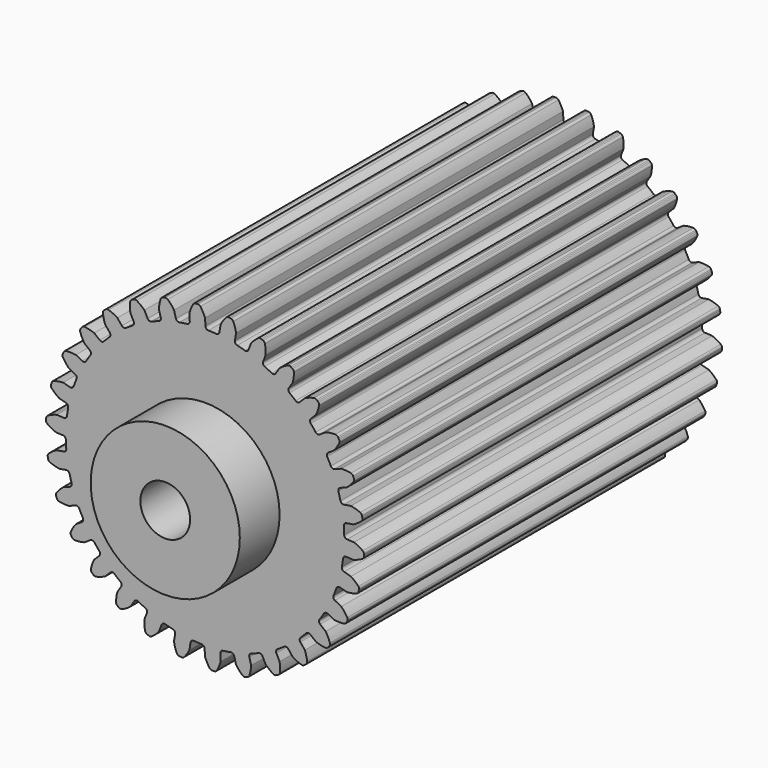
from build123d import *

# Parameters (mm, degrees)
F0_R     = 6.35
F1_DEPTH = 114.3
F2_R     = 19.05
F2_R_2   = 6.35
F3_DEPTH = 12.7


with BuildPart() as f1:
    # F0 (on Front) → F1 (new body)
    with BuildSketch(Plane.XZ):
        with BuildLine():
            ThreePointArc((-11.307946, 34.464262), (-11.370039, 33.911451), (-11.791311, 33.548153))
            ThreePointArc((-11.791311, 33.548153), (-12.743564, 33.19812), (-13.685445, 32.821063))
            ThreePointArc((-13.685445, 32.821063), (-14.241605, 32.80916), (-14.657651, 33.178431))
            Line((-14.657651, 33.178431), (-15.488771, 34.809596))
            ThreePointArc((-15.488771, 34.809596), (-16.427366, 35.631885), (-17.4654, 36.32442))
            ThreePointArc((-17.4654, 36.32442), (-17.81969, 36.425752), (-18.180103, 36.348987))
            Line((-18.180103, 36.348987), (-18.452893, 36.215842))
            Line((-18.452893, 36.215842), (-18.720952, 36.073411))
            ThreePointArc((-18.720952, 36.073411), (-18.994901, 35.826952), (-19.121168, 35.480764))
            ThreePointArc((-19.121168, 35.480764), (-19.171038, 34.233915), (-19.057483, 32.991246))
            Line((-19.057483, 32.991246), (-18.226363, 31.360081))
            ThreePointArc((-18.226363, 31.360081), (-18.172163, 30.806441), (-18.508695, 30.363494))
            ThreePointArc((-18.508695, 30.363494), (-19.367364, 29.823125), (-20.210268, 29.25848))
            ThreePointArc((-20.210268, 29.25848), (-20.751799, 29.131205), (-21.23553, 29.405906))
            Line((-21.23553, 29.405906), (-22.387626, 30.828626))
            ThreePointArc((-22.387626, 30.828626), (-23.476674, 31.437802), (-24.636011, 31.899383))
            ThreePointArc((-24.636011, 31.899383), (-25.003627, 31.92484), (-25.340203, 31.774819))
            Line((-25.340203, 31.774819), (-25.57935, 31.587867))
            Line((-25.57935, 31.587867), (-25.811938, 31.392815))
            ThreePointArc((-25.811938, 31.392815), (-26.028659, 31.094785), (-26.08019, 30.72991))
            ThreePointArc((-26.08019, 30.72991), (-25.869736, 29.499939), (-25.500297, 28.308035))
            Line((-25.500297, 28.308035), (-24.348201, 26.885314))
            ThreePointArc((-24.348201, 26.885314), (-24.180077, 26.355041), (-24.417162, 25.851805))
            ThreePointArc((-24.417162, 25.851805), (-25.144717, 25.144717), (-25.851805, 24.417162))
            ThreePointArc((-25.851805, 24.417162), (-26.355041, 24.180077), (-26.885314, 24.348201))
            Line((-26.885314, 24.348201), (-28.308035, 25.500297))
            ThreePointArc((-28.308035, 25.500297), (-29.499939, 25.869736), (-30.72991, 26.08019))
            ThreePointArc((-30.72991, 26.08019), (-31.094785, 26.028659), (-31.392815, 25.811938))
            Line((-31.392815, 25.811938), (-31.587867, 25.57935))
            Line((-31.587867, 25.57935), (-31.774819, 25.340203))
            ThreePointArc((-31.774819, 25.340203), (-31.92484, 25.003627), (-31.899383, 24.636011))
            ThreePointArc((-31.899383, 24.636011), (-31.437802, 23.476674), (-30.828626, 22.387626))
            Line((-30.828626, 22.387626), (-29.405906, 21.23553))
            ThreePointArc((-29.405906, 21.23553), (-29.131205, 20.751799), (-29.25848, 20.210268))
            ThreePointArc((-29.25848, 20.210268), (-29.823125, 19.367364), (-30.363494, 18.508695))
            ThreePointArc((-30.363494, 18.508695), (-30.806441, 18.172163), (-31.360081, 18.226363))
            Line((-31.360081, 18.226363), (-32.991246, 19.057483))
            ThreePointArc((-32.991246, 19.057483), (-34.233915, 19.171038), (-35.480764, 19.121168))
            ThreePointArc((-35.480764, 19.121168), (-35.826952, 18.994901), (-36.073411, 18.720952))
            Line((-36.073411, 18.720952), (-36.215842, 18.452893))
            Line((-36.215842, 18.452893), (-36.348987, 18.180103))
            ThreePointArc((-36.348987, 18.180103), (-36.425752, 17.81969), (-36.32442, 17.4654))
            ThreePointArc((-36.32442, 17.4654), (-35.631885, 16.427366), (-34.809596, 15.488771))
            Line((-34.809596, 15.488771), (-33.178431, 14.657651))
            ThreePointArc((-33.178431, 14.657651), (-32.80916, 14.241605), (-32.821063, 13.685445))
            ThreePointArc((-32.821063, 13.685445), (-33.19812, 12.743564), (-33.548153, 11.791311))
            ThreePointArc((-33.548153, 11.791311), (-33.911451, 11.370039), (-34.464262, 11.307946))
            Line((-34.464262, 11.307946), (-36.232582, 11.781766))
            ThreePointArc((-36.232582, 11.781766), (-37.471704, 11.634473), (-38.680938, 11.326459))
            ThreePointArc((-38.680938, 11.326459), (-38.993309, 11.130975), (-39.177425, 10.811771))
            Line((-39.177425, 10.811771), (-39.261011, 10.519956))
            Line((-39.261011, 10.519956), (-39.33453, 10.225444))
            ThreePointArc((-39.33453, 10.225444), (-39.334684, 9.856948), (-39.161905, 9.531468))
            ThreePointArc((-39.161905, 9.531468), (-38.268685, 8.660103), (-37.269219, 7.912982))
            Line((-37.269219, 7.912982), (-35.5009, 7.439163))
            ThreePointArc((-35.5009, 7.439163), (-35.053198, 7.108983), (-34.949208, 6.562502))
            ThreePointArc((-34.949208, 6.562502), (-35.122197, 5.56281), (-35.266597, 4.558589))
            ThreePointArc((-35.266597, 4.558589), (-35.534369, 4.070989), (-36.06219, 3.895317))
            Line((-36.06219, 3.895317), (-37.89038, 3.991129))
            ThreePointArc((-37.89038, 3.991129), (-39.071801, 3.589427), (-40.19057, 3.03673))
            ThreePointArc((-40.19057, 3.03673), (-40.455472, 2.780571), (-40.569198, 2.430063))
            Line((-40.569198, 2.430063), (-40.590286, 2.127247))
            Line((-40.590286, 2.127247), (-40.600966, 1.823885))
            ThreePointArc((-40.600966, 1.823885), (-40.524501, 1.463409), (-40.287827, 1.180964))
            ThreePointArc((-40.287827, 1.180964), (-39.232959, 0.514352), (-38.099999, -0.008642))
            Line((-38.099999, -0.008642), (-36.271809, -0.104453))
            ThreePointArc((-36.271809, -0.104453), (-35.765242, -0.334335), (-35.549905, -0.847253))
            ThreePointArc((-35.549905, -0.847253), (-35.511266, -1.861067), (-35.443721, -2.873365))
            ThreePointArc((-35.443721, -2.873365), (-35.604264, -3.405983), (-36.084026, -3.687556))
            Line((-36.084026, -3.687556), (-37.892187, -3.97394))
            ThreePointArc((-37.892187, -3.97394), (-38.964272, -4.612495), (-39.943682, -5.38572))
            ThreePointArc((-39.943682, -5.38572), (-40.149536, -5.691356), (-40.187902, -6.05785))
            Line((-40.187902, -6.05785), (-40.14557, -6.358434))
            Line((-40.14557, -6.358434), (-40.092945, -6.657387))
            ThreePointArc((-40.092945, -6.657387), (-39.943203, -6.994087), (-39.652978, -7.221153))
            ThreePointArc((-39.652978, -7.221153), (-38.482564, -7.653879), (-37.265626, -7.929888))
            Line((-37.265626, -7.929888), (-35.457466, -7.643504))
            ThreePointArc((-35.457466, -7.643504), (-34.914174, -7.76304), (-34.596901, -8.21998))
            ThreePointArc((-34.596901, -8.21998), (-34.348322, -9.203605), (-34.071785, -10.179739))
            ThreePointArc((-34.071785, -10.179739), (-34.118082, -10.734097), (-34.528818, -11.109265))
            Line((-34.528818, -11.109265), (-36.237923, -11.765329))
            ThreePointArc((-36.237923, -11.765329), (-37.153818, -12.612829), (-37.951062, -13.572787))
            ThreePointArc((-37.951062, -13.572787), (-38.088873, -13.914544), (-38.050202, -14.281006))
            Line((-38.050202, -14.281006), (-37.9463, -14.56622))
            Line((-37.9463, -14.56622), (-37.832669, -14.847699))
            ThreePointArc((-37.832669, -14.847699), (-37.616196, -15.145909), (-37.285103, -15.307671))
            ThreePointArc((-37.285103, -15.307671), (-36.050297, -15.487598), (-34.802566, -15.50456))
            Line((-34.802566, -15.50456), (-33.093461, -14.848496))
            ThreePointArc((-33.093461, -14.848496), (-32.537188, -14.852464), (-32.131845, -15.233453))
            ThreePointArc((-32.131845, -15.233453), (-31.684192, -16.143902), (-31.210748, -17.04121))
            ThreePointArc((-31.210748, -17.04121), (-31.140775, -17.593079), (-31.464534, -18.045446))
            Line((-31.464534, -18.045446), (-32.999888, -19.042516))
            ThreePointArc((-32.999888, -19.042516), (-33.719563, -20.061921), (-34.299799, -21.166659))
            ThreePointArc((-34.299799, -21.166659), (-34.363543, -21.5296), (-34.249525, -21.880014))
            Line((-34.249525, -21.880014), (-34.088595, -22.137393))
            Line((-34.088595, -22.137393), (-33.918924, -22.389095))
            ThreePointArc((-33.918924, -22.389095), (-33.645181, -22.635781), (-33.28769, -22.72517))
            ThreePointArc((-33.28769, -22.72517), (-32.042459, -22.644435), (-30.818467, -22.401609))
            Line((-30.818467, -22.401609), (-29.283114, -21.404539))
            ThreePointArc((-29.283114, -21.404539), (-28.738172, -21.292764), (-28.262475, -21.581152))
            ThreePointArc((-28.262475, -21.581152), (-27.63531, -22.378633), (-26.985651, -23.157898))
            ThreePointArc((-26.985651, -23.157898), (-26.802468, -23.683159), (-27.0251, -24.192954))
            Line((-27.0251, -24.192954), (-28.319599, -25.487453))
            ThreePointArc((-28.319599, -25.487453), (-28.811602, -26.634211), (-29.149471, -27.835446))
            ThreePointArc((-29.149471, -27.835446), (-29.136361, -28.203709), (-28.95198, -28.52276))
            Line((-28.95198, -28.52276), (-28.741055, -28.741055))
            Line((-28.741055, -28.741055), (-28.52276, -28.95198))
            ThreePointArc((-28.52276, -28.95198), (-28.203709, -29.136361), (-27.835446, -29.149471))
            ThreePointArc((-27.835446, -29.149471), (-26.634211, -28.811602), (-25.487453, -28.319599))
            Line((-25.487453, -28.319599), (-24.192954, -27.0251))
            ThreePointArc((-24.192954, -27.0251), (-23.683159, -26.802468), (-23.157898, -26.985651))
            ThreePointArc((-23.157898, -26.985651), (-22.378633, -27.63531), (-21.581152, -28.262475))
            ThreePointArc((-21.581152, -28.262475), (-21.292764, -28.738172), (-21.404539, -29.283114))
            Line((-21.404539, -29.283114), (-22.401609, -30.818467))
            ThreePointArc((-22.401609, -30.818467), (-22.644435, -32.042459), (-22.72517, -33.28769))
            ThreePointArc((-22.72517, -33.28769), (-22.635781, -33.645181), (-22.389095, -33.918924))
            Line((-22.389095, -33.918924), (-22.137393, -34.088595))
            Line((-22.137393, -34.088595), (-21.880014, -34.249525))
            ThreePointArc((-21.880014, -34.249525), (-21.5296, -34.363543), (-21.166659, -34.299799))
            ThreePointArc((-21.166659, -34.299799), (-20.061921, -33.719563), (-19.042516, -32.999888))
            Line((-19.042516, -32.999888), (-18.045446, -31.464534))
            ThreePointArc((-18.045446, -31.464534), (-17.593079, -31.140775), (-17.04121, -31.210748))
            ThreePointArc((-17.04121, -31.210748), (-16.143902, -31.684192), (-15.233453, -32.131845))
            ThreePointArc((-15.233453, -32.131845), (-14.852464, -32.537188), (-14.848496, -33.093461))
            Line((-14.848496, -33.093461), (-15.50456, -34.802566))
            ThreePointArc((-15.50456, -34.802566), (-15.487598, -36.050297), (-15.307671, -37.285103))
            ThreePointArc((-15.307671, -37.285103), (-15.145909, -37.616196), (-14.847699, -37.832669))
            Line((-14.847699, -37.832669), (-14.56622, -37.9463))
            Line((-14.56622, -37.9463), (-14.281006, -38.050202))
            ThreePointArc((-14.281006, -38.050202), (-13.914544, -38.088873), (-13.572787, -37.951062))
            ThreePointArc((-13.572787, -37.951062), (-12.612829, -37.153818), (-11.765329, -36.237923))
            Line((-11.765329, -36.237923), (-11.109265, -34.528818))
            ThreePointArc((-11.109265, -34.528818), (-10.734097, -34.118082), (-10.179739, -34.071785))
            ThreePointArc((-10.179739, -34.071785), (-9.203605, -34.348322), (-8.21998, -34.596901))
            ThreePointArc((-8.21998, -34.596901), (-7.76304, -34.914174), (-7.643504, -35.457466))
            Line((-7.643504, -35.457466), (-7.929888, -37.265626))
            ThreePointArc((-7.929888, -37.265626), (-7.653879, -38.482564), (-7.221153, -39.652978))
            ThreePointArc((-7.221153, -39.652978), (-6.994087, -39.943203), (-6.657387, -40.092945))
            Line((-6.657387, -40.092945), (-6.358434, -40.14557))
            Line((-6.358434, -40.14557), (-6.05785, -40.187902))
            ThreePointArc((-6.05785, -40.187902), (-5.691356, -40.149536), (-5.38572, -39.943682))
            ThreePointArc((-5.38572, -39.943682), (-4.612495, -38.964272), (-3.97394, -37.892187))
            Line((-3.97394, -37.892187), (-3.687556, -36.084026))
            ThreePointArc((-3.687556, -36.084026), (-3.405983, -35.604264), (-2.873365, -35.443721))
            ThreePointArc((-2.873365, -35.443721), (-1.861067, -35.511266), (-0.847253, -35.549905))
            ThreePointArc((-0.847253, -35.549905), (-0.334335, -35.765242), (-0.104453, -36.271809))
            Line((-0.104453, -36.271809), (-0.008642, -38.099999))
            ThreePointArc((-0.008642, -38.099999), (0.514352, -39.232959), (1.180964, -40.287827))
            ThreePointArc((1.180964, -40.287827), (1.463409, -40.524501), (1.823885, -40.600966))
            Line((1.823885, -40.600966), (2.127247, -40.590286))
            Line((2.127247, -40.590286), (2.430063, -40.569198))
            ThreePointArc((2.430063, -40.569198), (2.780571, -40.455472), (3.03673, -40.19057))
            ThreePointArc((3.03673, -40.19057), (3.589427, -39.071801), (3.991129, -37.89038))
            Line((3.991129, -37.89038), (3.895317, -36.06219))
            ThreePointArc((3.895317, -36.06219), (4.070989, -35.534369), (4.558589, -35.266597))
            ThreePointArc((4.558589, -35.266597), (5.56281, -35.122197), (6.562502, -34.949208))
            ThreePointArc((6.562502, -34.949208), (7.108983, -35.053198), (7.439163, -35.5009))
            Line((7.439163, -35.5009), (7.912982, -37.269219))
            ThreePointArc((7.912982, -37.269219), (8.660103, -38.268685), (9.531468, -39.161905))
            ThreePointArc((9.531468, -39.161905), (9.856948, -39.334684), (10.225444, -39.33453))
            Line((10.225444, -39.33453), (10.519956, -39.261011))
            Line((10.519956, -39.261011), (10.811771, -39.177425))
            ThreePointArc((10.811771, -39.177425), (11.130975, -38.993309), (11.326459, -38.680938))
            ThreePointArc((11.326459, -38.680938), (11.634473, -37.471704), (11.781766, -36.232582))
            Line((11.781766, -36.232582), (11.307946, -34.464262))
            ThreePointArc((11.307946, -34.464262), (11.370039, -33.911451), (11.791311, -33.548153))
            ThreePointArc((11.791311, -33.548153), (12.743564, -33.19812), (13.685445, -32.821063))
            ThreePointArc((13.685445, -32.821063), (14.241605, -32.80916), (14.657651, -33.178431))
            Line((14.657651, -33.178431), (15.488771, -34.809596))
            ThreePointArc((15.488771, -34.809596), (16.427366, -35.631885), (17.4654, -36.32442))
            ThreePointArc((17.4654, -36.32442), (17.81969, -36.425752), (18.180103, -36.348987))
            Line((18.180103, -36.348987), (18.452893, -36.215842))
            Line((18.452893, -36.215842), (18.720952, -36.073411))
            ThreePointArc((18.720952, -36.073411), (18.994901, -35.826952), (19.121168, -35.480764))
            ThreePointArc((19.121168, -35.480764), (19.171038, -34.233915), (19.057483, -32.991246))
            Line((19.057483, -32.991246), (18.226363, -31.360081))
            ThreePointArc((18.226363, -31.360081), (18.172163, -30.806441), (18.508695, -30.363494))
            ThreePointArc((18.508695, -30.363494), (19.367364, -29.823125), (20.210268, -29.25848))
            ThreePointArc((20.210268, -29.25848), (20.751799, -29.131205), (21.23553, -29.405906))
            Line((21.23553, -29.405906), (22.387626, -30.828626))
            ThreePointArc((22.387626, -30.828626), (23.476674, -31.437802), (24.636011, -31.899383))
            ThreePointArc((24.636011, -31.899383), (25.003627, -31.92484), (25.340203, -31.774819))
            Line((25.340203, -31.774819), (25.57935, -31.587867))
            Line((25.57935, -31.587867), (25.811938, -31.392815))
            ThreePointArc((25.811938, -31.392815), (26.028659, -31.094785), (26.08019, -30.72991))
            ThreePointArc((26.08019, -30.72991), (25.869736, -29.499939), (25.500297, -28.308035))
            Line((25.500297, -28.308035), (24.348201, -26.885314))
            ThreePointArc((24.348201, -26.885314), (24.180077, -26.355041), (24.417162, -25.851805))
            ThreePointArc((24.417162, -25.851805), (25.144717, -25.144717), (25.851805, -24.417162))
            ThreePointArc((25.851805, -24.417162), (26.355041, -24.180077), (26.885314, -24.348201))
            Line((26.885314, -24.348201), (28.308035, -25.500297))
            ThreePointArc((28.308035, -25.500297), (29.499939, -25.869736), (30.72991, -26.08019))
            ThreePointArc((30.72991, -26.08019), (31.094785, -26.028659), (31.392815, -25.811938))
            Line((31.392815, -25.811938), (31.587867, -25.57935))
            Line((31.587867, -25.57935), (31.774819, -25.340203))
            ThreePointArc((31.774819, -25.340203), (31.92484, -25.003627), (31.899383, -24.636011))
            ThreePointArc((31.899383, -24.636011), (31.437802, -23.476674), (30.828626, -22.387626))
            Line((30.828626, -22.387626), (29.405906, -21.23553))
            ThreePointArc((29.405906, -21.23553), (29.131205, -20.751799), (29.25848, -20.210268))
            ThreePointArc((29.25848, -20.210268), (29.823125, -19.367364), (30.363494, -18.508695))
            ThreePointArc((30.363494, -18.508695), (30.806441, -18.172163), (31.360081, -18.226363))
            Line((31.360081, -18.226363), (32.991246, -19.057483))
            ThreePointArc((32.991246, -19.057483), (34.233915, -19.171038), (35.480764, -19.121168))
            ThreePointArc((35.480764, -19.121168), (35.826952, -18.994901), (36.073411, -18.720952))
            Line((36.073411, -18.720952), (36.215842, -18.452893))
            Line((36.215842, -18.452893), (36.348987, -18.180103))
            ThreePointArc((36.348987, -18.180103), (36.425752, -17.81969), (36.32442, -17.4654))
            ThreePointArc((36.32442, -17.4654), (35.631885, -16.427366), (34.809596, -15.488771))
            Line((34.809596, -15.488771), (33.178431, -14.657651))
            ThreePointArc((33.178431, -14.657651), (32.80916, -14.241605), (32.821063, -13.685445))
            ThreePointArc((32.821063, -13.685445), (33.19812, -12.743564), (33.548153, -11.791311))
            ThreePointArc((33.548153, -11.791311), (33.911451, -11.370039), (34.464262, -11.307946))
            Line((34.464262, -11.307946), (36.232582, -11.781766))
            ThreePointArc((36.232582, -11.781766), (37.471704, -11.634473), (38.680938, -11.326459))
            ThreePointArc((38.680938, -11.326459), (38.993309, -11.130975), (39.177425, -10.811771))
            Line((39.177425, -10.811771), (39.261011, -10.519956))
            Line((39.261011, -10.519956), (39.33453, -10.225444))
            ThreePointArc((39.33453, -10.225444), (39.334684, -9.856948), (39.161905, -9.531468))
            ThreePointArc((39.161905, -9.531468), (38.268685, -8.660103), (37.269219, -7.912982))
            Line((37.269219, -7.912982), (35.5009, -7.439163))
            ThreePointArc((35.5009, -7.439163), (35.053198, -7.108983), (34.949208, -6.562502))
            ThreePointArc((34.949208, -6.562502), (35.122197, -5.56281), (35.266597, -4.558589))
            ThreePointArc((35.266597, -4.558589), (35.534369, -4.070989), (36.06219, -3.895317))
            Line((36.06219, -3.895317), (37.89038, -3.991129))
            ThreePointArc((37.89038, -3.991129), (39.071801, -3.589427), (40.19057, -3.03673))
            ThreePointArc((40.19057, -3.03673), (40.455472, -2.780571), (40.569198, -2.430063))
            Line((40.569198, -2.430063), (40.589377, -2.140298))
            ThreePointArc((40.589377, -2.140298), (40.590173, -2.127241), (40.590746, -2.114172))
            Line((40.590746, -2.114172), (40.600966, -1.823885))
            ThreePointArc((40.600966, -1.823885), (40.524501, -1.463409), (40.287827, -1.180964))
            ThreePointArc((40.287827, -1.180964), (39.232959, -0.514352), (38.099999, 0.008642))
            Line((38.099999, 0.008642), (36.271809, 0.104453))
            ThreePointArc((36.271809, 0.104453), (35.765242, 0.334335), (35.549905, 0.847253))
            ThreePointArc((35.549905, 0.847253), (35.511266, 1.861067), (35.443721, 2.873365))
            ThreePointArc((35.443721, 2.873365), (35.604264, 3.405983), (36.084026, 3.687556))
            Line((36.084026, 3.687556), (37.892187, 3.97394))
            ThreePointArc((37.892187, 3.97394), (38.964272, 4.612495), (39.943682, 5.38572))
            ThreePointArc((39.943682, 5.38572), (40.149536, 5.691356), (40.187902, 6.05785))
            Line((40.187902, 6.05785), (40.14557, 6.358434))
            Line((40.14557, 6.358434), (40.092945, 6.657387))
            ThreePointArc((40.092945, 6.657387), (39.943203, 6.994087), (39.652978, 7.221153))
            ThreePointArc((39.652978, 7.221153), (38.482564, 7.653879), (37.265626, 7.929888))
            Line((37.265626, 7.929888), (35.457466, 7.643504))
            ThreePointArc((35.457466, 7.643504), (34.914174, 7.76304), (34.596901, 8.21998))
            ThreePointArc((34.596901, 8.21998), (34.348322, 9.203605), (34.071785, 10.179739))
            ThreePointArc((34.071785, 10.179739), (34.118082, 10.734097), (34.528818, 11.109265))
            Line((34.528818, 11.109265), (36.237923, 11.765329))
            ThreePointArc((36.237923, 11.765329), (37.153818, 12.612829), (37.951062, 13.572787))
            ThreePointArc((37.951062, 13.572787), (38.088873, 13.914544), (38.050202, 14.281006))
            Line((38.050202, 14.281006), (37.9463, 14.56622))
            Line((37.9463, 14.56622), (37.832669, 14.847699))
            ThreePointArc((37.832669, 14.847699), (37.616196, 15.145909), (37.285103, 15.307671))
            ThreePointArc((37.285103, 15.307671), (36.050297, 15.487598), (34.802566, 15.50456))
            Line((34.802566, 15.50456), (33.093461, 14.848496))
            ThreePointArc((33.093461, 14.848496), (32.537188, 14.852464), (32.131845, 15.233453))
            ThreePointArc((32.131845, 15.233453), (31.684192, 16.143902), (31.210748, 17.04121))
            ThreePointArc((31.210748, 17.04121), (31.140775, 17.593079), (31.464534, 18.045446))
            Line((31.464534, 18.045446), (32.999888, 19.042516))
            ThreePointArc((32.999888, 19.042516), (33.719563, 20.061921), (34.299799, 21.166659))
            ThreePointArc((34.299799, 21.166659), (34.363543, 21.5296), (34.249525, 21.880014))
            Line((34.249525, 21.880014), (34.088595, 22.137393))
            Line((34.088595, 22.137393), (33.918924, 22.389095))
            ThreePointArc((33.918924, 22.389095), (33.645181, 22.635781), (33.28769, 22.72517))
            ThreePointArc((33.28769, 22.72517), (32.042459, 22.644435), (30.818467, 22.401609))
            Line((30.818467, 22.401609), (29.283114, 21.404539))
            ThreePointArc((29.283114, 21.404539), (28.738172, 21.292764), (28.262475, 21.581152))
            ThreePointArc((28.262475, 21.581152), (27.63531, 22.378633), (26.985651, 23.157898))
            ThreePointArc((26.985651, 23.157898), (26.802468, 23.683159), (27.0251, 24.192954))
            Line((27.0251, 24.192954), (28.319599, 25.487453))
            ThreePointArc((28.319599, 25.487453), (28.811602, 26.634211), (29.149471, 27.835446))
            ThreePointArc((29.149471, 27.835446), (29.136361, 28.203709), (28.95198, 28.52276))
            Line((28.95198, 28.52276), (28.741055, 28.741055))
            Line((28.741055, 28.741055), (28.52276, 28.95198))
            ThreePointArc((28.52276, 28.95198), (28.203709, 29.136361), (27.835446, 29.149471))
            ThreePointArc((27.835446, 29.149471), (26.634211, 28.811602), (25.487453, 28.319599))
            Line((25.487453, 28.319599), (24.192954, 27.0251))
            ThreePointArc((24.192954, 27.0251), (23.683159, 26.802468), (23.157898, 26.985651))
            ThreePointArc((23.157898, 26.985651), (22.378633, 27.63531), (21.581152, 28.262475))
            ThreePointArc((21.581152, 28.262475), (21.292764, 28.738172), (21.404539, 29.283114))
            Line((21.404539, 29.283114), (22.401609, 30.818467))
            ThreePointArc((22.401609, 30.818467), (22.644435, 32.042459), (22.72517, 33.28769))
            ThreePointArc((22.72517, 33.28769), (22.635781, 33.645181), (22.389095, 33.918924))
            Line((22.389095, 33.918924), (22.137393, 34.088595))
            Line((22.137393, 34.088595), (21.880014, 34.249525))
            ThreePointArc((21.880014, 34.249525), (21.5296, 34.363543), (21.166659, 34.299799))
            ThreePointArc((21.166659, 34.299799), (20.061921, 33.719563), (19.042516, 32.999888))
            Line((19.042516, 32.999888), (18.045446, 31.464534))
            ThreePointArc((18.045446, 31.464534), (17.593079, 31.140775), (17.04121, 31.210748))
            ThreePointArc((17.04121, 31.210748), (16.143902, 31.684192), (15.233453, 32.131845))
            ThreePointArc((15.233453, 32.131845), (14.852464, 32.537188), (14.848496, 33.093461))
            Line((14.848496, 33.093461), (15.50456, 34.802566))
            ThreePointArc((15.50456, 34.802566), (15.487598, 36.050297), (15.307671, 37.285103))
            ThreePointArc((15.307671, 37.285103), (15.145909, 37.616196), (14.847699, 37.832669))
            Line((14.847699, 37.832669), (14.56622, 37.9463))
            Line((14.56622, 37.9463), (14.281006, 38.050202))
            ThreePointArc((14.281006, 38.050202), (13.914544, 38.088873), (13.572787, 37.951062))
            ThreePointArc((13.572787, 37.951062), (12.612829, 37.153818), (11.765329, 36.237923))
            Line((11.765329, 36.237923), (11.109265, 34.528818))
            ThreePointArc((11.109265, 34.528818), (10.734097, 34.118082), (10.179739, 34.071785))
            ThreePointArc((10.179739, 34.071785), (9.203605, 34.348322), (8.21998, 34.596901))
            ThreePointArc((8.21998, 34.596901), (7.76304, 34.914174), (7.643504, 35.457466))
            Line((7.643504, 35.457466), (7.929888, 37.265626))
            ThreePointArc((7.929888, 37.265626), (7.653879, 38.482564), (7.221153, 39.652978))
            ThreePointArc((7.221153, 39.652978), (6.994087, 39.943203), (6.657387, 40.092945))
            Line((6.657387, 40.092945), (6.358434, 40.14557))
            Line((6.358434, 40.14557), (6.05785, 40.187902))
            ThreePointArc((6.05785, 40.187902), (5.691356, 40.149536), (5.38572, 39.943682))
            ThreePointArc((5.38572, 39.943682), (4.612495, 38.964272), (3.97394, 37.892187))
            Line((3.97394, 37.892187), (3.687556, 36.084026))
            ThreePointArc((3.687556, 36.084026), (3.405983, 35.604264), (2.873365, 35.443721))
            ThreePointArc((2.873365, 35.443721), (1.861067, 35.511266), (0.847253, 35.549905))
            ThreePointArc((0.847253, 35.549905), (0.334335, 35.765242), (0.104453, 36.271809))
            Line((0.104453, 36.271809), (0.008642, 38.099999))
            ThreePointArc((0.008642, 38.099999), (-0.514352, 39.232959), (-1.180964, 40.287827))
            ThreePointArc((-1.180964, 40.287827), (-1.463409, 40.524501), (-1.823885, 40.600966))
            Line((-1.823885, 40.600966), (-2.127247, 40.590286))
            Line((-2.127247, 40.590286), (-2.430063, 40.569198))
            ThreePointArc((-2.430063, 40.569198), (-2.780571, 40.455472), (-3.03673, 40.19057))
            ThreePointArc((-3.03673, 40.19057), (-3.589427, 39.071801), (-3.991129, 37.89038))
            Line((-3.991129, 37.89038), (-3.895317, 36.06219))
            ThreePointArc((-3.895317, 36.06219), (-4.070989, 35.534369), (-4.558589, 35.266597))
            ThreePointArc((-4.558589, 35.266597), (-5.56281, 35.122197), (-6.562502, 34.949208))
            ThreePointArc((-6.562502, 34.949208), (-7.108983, 35.053198), (-7.439163, 35.5009))
            Line((-7.439163, 35.5009), (-7.912982, 37.269219))
            ThreePointArc((-7.912982, 37.269219), (-8.660103, 38.268685), (-9.531468, 39.161905))
            ThreePointArc((-9.531468, 39.161905), (-9.856948, 39.334684), (-10.225444, 39.33453))
            Line((-10.225444, 39.33453), (-10.519956, 39.261011))
            Line((-10.519956, 39.261011), (-10.811771, 39.177425))
            ThreePointArc((-10.811771, 39.177425), (-11.130975, 38.993309), (-11.326459, 38.680938))
            ThreePointArc((-11.326459, 38.680938), (-11.634473, 37.471704), (-11.781766, 36.232582))
            Line((-11.781766, 36.232582), (-11.307946, 34.464262))
        make_face()
        Circle(F0_R, mode=Mode.SUBTRACT)
    extrude(amount=F1_DEPTH)

    # F2 (on face) → F3 (join)
    with BuildSketch(Plane.XZ.offset(114.3)):
        Circle(F2_R)
        Circle(F2_R_2, mode=Mode.SUBTRACT)
    extrude(amount=F3_DEPTH)


solid = f1.part
